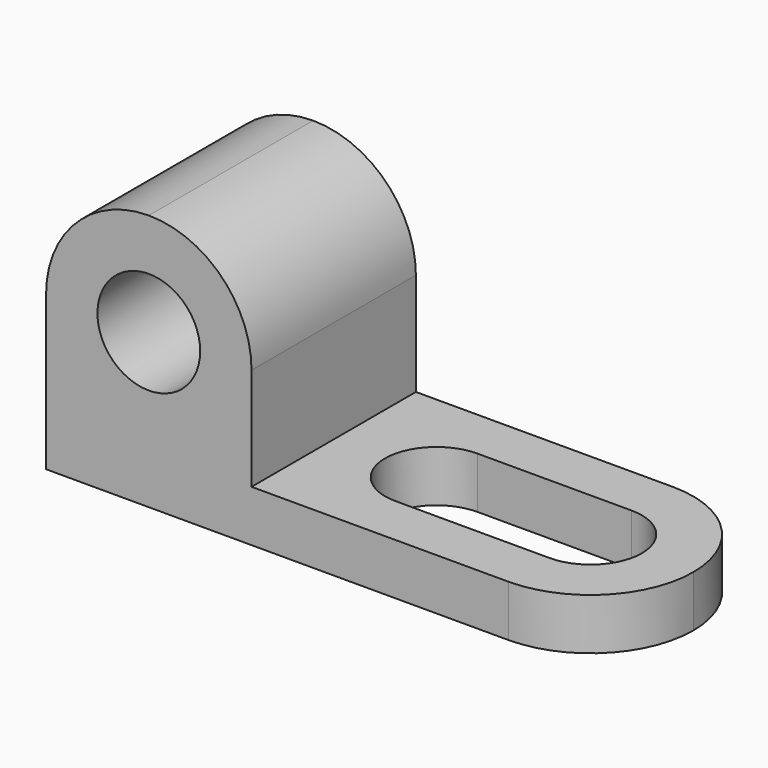
from build123d import *

# Parameters (mm, degrees)
F1_DEPTH = 25.4
F2_R     = 6.35
F3_DEPTH = 25.4
F5_DEPTH = 12.7


with BuildPart() as f1:
    # F0 (on Front) → F1 (new body)
    with BuildSketch(Plane.XZ):
        Polygon((0, 31.75), (0, 0), (69.85, 0), (69.85, 6.35), (25.4, 6.35), (25.4, 31.75), align=None)
    extrude(amount=F1_DEPTH)

    # F2 (on face) → F3 (cut)
    with BuildSketch(Plane.XZ.offset(25.4)):
        with BuildLine():
            ThreePointArc((0, 19.05), (3.719744, 28.030256), (12.7, 31.75))
            Line((12.7, 31.75), (0, 31.75))
            Line((0, 31.75), (0, 19.05))
        make_face()
        with BuildLine():
            ThreePointArc((12.7, 31.75), (21.680256, 28.030256), (25.4, 19.05))
            Line((25.4, 19.05), (25.4, 31.75))
            Line((25.4, 31.75), (12.7, 31.75))
        make_face()
        with Locations((12.7, 19.05)):
            Circle(F2_R)
    extrude(amount=-F3_DEPTH, mode=Mode.SUBTRACT)

    # F4 (on face) → F5 (cut)
    with BuildSketch(Plane.XY.offset(6.35)):
        with BuildLine():
            Line((38.1, -12.7), (38.1, -6.35))
            ThreePointArc((38.1, -6.35), (31.75, -12.7), (38.1, -19.05))
            Line((38.1, -19.05), (38.1, -12.7))
        make_face()
        with BuildLine():
            ThreePointArc((44.45, -12.7), (42.590128, -8.209872), (38.1, -6.35))
            Line((38.1, -6.35), (38.1, -12.7))
            Line((38.1, -12.7), (38.1, -19.05))
            ThreePointArc((38.1, -19.05), (42.590128, -17.190128), (44.45, -12.7))
        make_face()
        with BuildLine():
            ThreePointArc((57.15, -19.05), (50.8, -12.7), (57.15, -6.35))
            Line((57.15, -6.35), (38.1, -6.35))
            ThreePointArc((38.1, -6.35), (42.590128, -8.209872), (44.45, -12.7))
            ThreePointArc((44.45, -12.7), (42.590128, -17.190128), (38.1, -19.05))
            Line((38.1, -19.05), (57.15, -19.05))
        make_face()
        with BuildLine():
            ThreePointArc((57.15, 0), (66.130256, -3.719744), (69.85, -12.7))
            Line((69.85, -12.7), (69.85, 0))
            Line((69.85, 0), (57.15, 0))
        make_face()
        with BuildLine():
            ThreePointArc((69.85, -12.7), (66.130256, -21.680256), (57.15, -25.4))
            Line((57.15, -25.4), (69.85, -25.4))
            Line((69.85, -25.4), (69.85, -12.7))
        make_face()
        with BuildLine():
            ThreePointArc((57.15, -19.05), (61.640128, -17.190128), (63.5, -12.7))
            ThreePointArc((63.5, -12.7), (61.640128, -8.209872), (57.15, -6.35))
            Line((57.15, -6.35), (57.15, -19.05))
        make_face()
        with BuildLine():
            Line((57.15, -19.05), (57.15, -6.35))
            ThreePointArc((57.15, -6.35), (50.8, -12.7), (57.15, -19.05))
        make_face()
    extrude(amount=-F5_DEPTH, mode=Mode.SUBTRACT)


solid = f1.part
